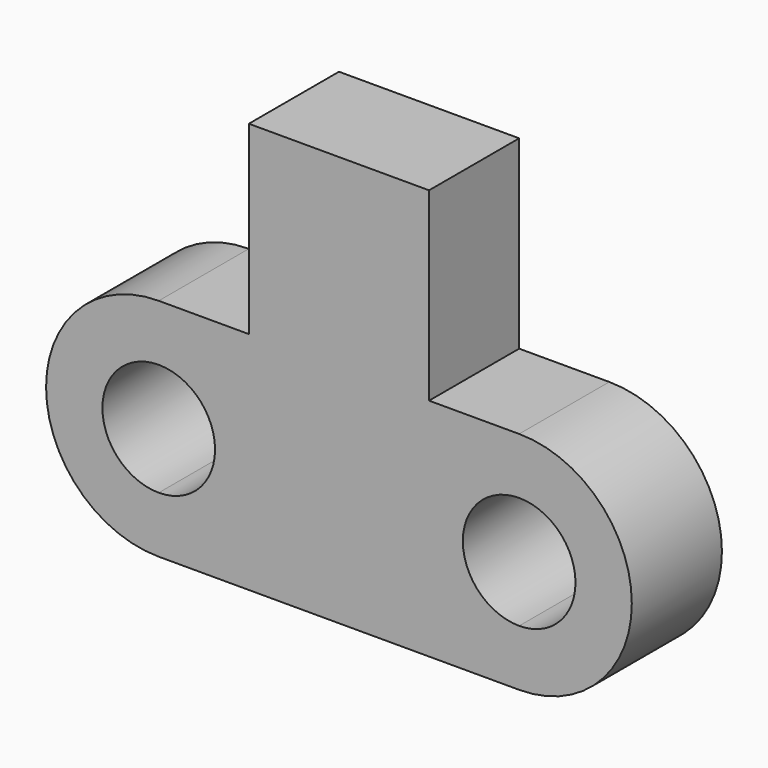
from build123d import *

# Parameters (mm, degrees)
F0_W     = 40
F0_H     = 41.101758
F0_H_2   = 50
F1_DEPTH = 25


with BuildPart() as f1:
    # F0 (on Front) → F1 (new body)
    with BuildSketch(Plane.XZ):
        with BuildLine():
            Line((0, 37.5), (0, 50))
            ThreePointArc((0, 50), (-25, 25), (0, 0))
            Line((0, 0), (0, 12.5))
            ThreePointArc((0, 12.5), (-12.5, 25), (0, 37.5))
        make_face()
        with BuildLine():
            Line((20, 50), (0, 50))
            Line((0, 50), (0, 37.5))
            ThreePointArc((0, 37.5), (8.838835, 33.838835), (12.5, 25))
            ThreePointArc((12.5, 25), (8.838835, 16.161165), (0, 12.5))
            Line((0, 12.5), (0, 0))
            Line((0, 0), (20, 0))
            Line((20, 0), (20, 50))
        make_face()
        with Locations((40, 70.550879)):
            Rectangle(F0_W, F0_H)
        with Locations((40, 25)):
            Rectangle(F0_W, F0_H_2)
        with BuildLine():
            Line((80, 50), (60, 50))
            Line((60, 50), (60, 0))
            Line((60, 0), (80, 0))
            Line((80, 0), (80, 12.5))
            ThreePointArc((80, 12.5), (67.5, 25), (80, 37.5))
            Line((80, 37.5), (80, 50))
        make_face()
        with BuildLine():
            ThreePointArc((80, 0), (105, 25), (80, 50))
            Line((80, 50), (80, 37.5))
            ThreePointArc((80, 37.5), (88.838835, 33.838835), (92.5, 25))
            ThreePointArc((92.5, 25), (88.838835, 16.161165), (80, 12.5))
            Line((80, 12.5), (80, 0))
        make_face()
    extrude(amount=F1_DEPTH)


solid = f1.part
